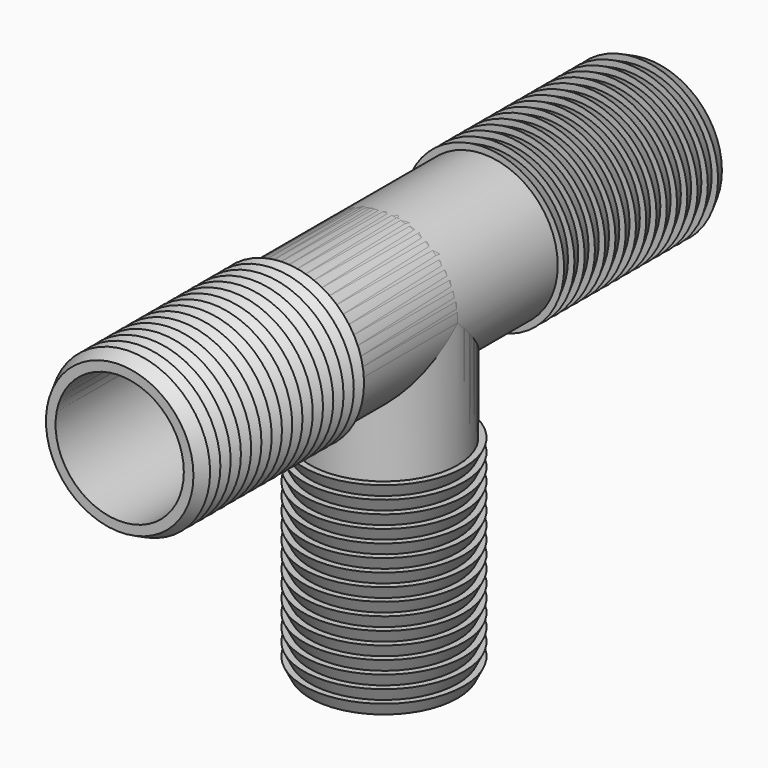
from build123d import *

# Parameters (mm, degrees)
CYLINDER001_R            = 5
CYLINDER001_DEPTH        = 25.75
CYLINDER_R               = 5
CYLINDER_DEPTH           = 25.75
ARRAY001_Z_COUNT         = 16
ARRAY001_Z_PITCH         = 1
ARRAY001_PLACEMENT_ANGLE = 270
CYLINDER003_R            = 5.75
CYLINDER003_DEPTH        = 25.75
CYLINDER002_R            = 5.75
CYLINDER002_DEPTH        = 25.75
ARRAY_Z_COUNT            = 16
ARRAY_Z_PITCH            = 1
CYLINDER005_R            = 5
CYLINDER005_DEPTH        = 51.5
CYLINDER004_R            = 5
CYLINDER004_DEPTH        = 25.75
ARRAY003_Z_COUNT         = 16
ARRAY003_Z_PITCH         = 1
ARRAY003_PLACEMENT_ANGLE = 270
CYLINDER007_R            = 5.75
CYLINDER007_DEPTH        = 51.5
CYLINDER006_R            = 5.75
CYLINDER006_DEPTH        = 25.75
ARRAY004_Z_COUNT         = 16
ARRAY004_Z_PITCH         = 1
ARRAY004_PLACEMENT_ANGLE = 90
ARRAY002_Z_COUNT         = 16
ARRAY002_Z_PITCH         = 1


with BuildPart() as cylinder001:
    # Cylinder001 → Cylinder001 (new body)
    with BuildSketch(Plane(origin=(0, 0, 25.75), x_dir=(1, 0, 0), z_dir=(0, -1, 0))):
        Circle(CYLINDER001_R)
    extrude(amount=CYLINDER001_DEPTH)


with BuildPart() as sphere:
    # Sphere → Sphere (revolve)
    with BuildSketch(Plane(origin=(0, 0, 25.75), x_dir=(1, 0, 0), z_dir=(0, -1, 0))):
        with BuildLine():
            ThreePointArc((0, -5), (5, 0), (0, 5))
            Line((0, 5), (0, -5))
        make_face()
    revolve(axis=Axis((0, 0, 25.75), (0, 0, 1)))


with BuildPart() as innerchannel:
    # Cylinder → Cylinder (new body)
    with BuildSketch(Plane.XY):
        Circle(CYLINDER_R)
    extrude(amount=CYLINDER_DEPTH)

    # Fusion: union Cylinder001, Sphere
    add(cylinder001.part)
    add(sphere.part)


with BuildPart() as array001:
    # Cone002 → Cone002 (revolve)
    with BuildSketch(Plane.XZ):
        Polygon((0, 0), (5.75, 0), (6.25, 1), (0, 1), align=None)
    revolve(axis=Axis((0, 0, 0), (0, 0, 1)))

    # Array001 Z: Array001 ×16


with BuildPart() as array001_1:
    add(array001.part)
    with Locations(*[(0, 0, i * ARRAY001_Z_PITCH) for i in range(1, ARRAY001_Z_COUNT)]):
        add(array001.part)


with BuildPart() as array001_2:
    # Array001 placement: moved
    add(array001_1.part.moved(Location((0, -25.75, 25.75))).rotate(Axis((0, -25.75, 25.75), (1, 0, 0)), ARRAY001_PLACEMENT_ANGLE))


with BuildPart() as cylinder003:
    # Cylinder003 → Cylinder003 (new body)
    with BuildSketch(Plane(origin=(0, 0, 25.75), x_dir=(1, 0, 0), z_dir=(0, -1, 0))):
        Circle(CYLINDER003_R)
    extrude(amount=CYLINDER003_DEPTH)


with BuildPart() as sphere001:
    # Sphere001 → Sphere001 (revolve)
    with BuildSketch(Plane(origin=(0, 0, 25.75), x_dir=(1, 0, 0), z_dir=(0, -1, 0))):
        with BuildLine():
            ThreePointArc((0, -5.75), (5.75, 0), (0, 5.75))
            Line((0, 5.75), (0, -5.75))
        make_face()
    revolve(axis=Axis((0, 0, 25.75), (0, 0, 1)))


with BuildPart() as outermain:
    # Cylinder002 → Cylinder002 (new body)
    with BuildSketch(Plane.XY):
        Circle(CYLINDER002_R)
    extrude(amount=CYLINDER002_DEPTH)

    # Fusion001: union Cylinder003, Sphere001
    add(cylinder003.part)
    add(sphere001.part)


with BuildPart() as obj1:
    # Cone → Cone (revolve)
    with BuildSketch(Plane.XZ):
        Polygon((0, 0), (5.75, 0), (6.25, 1), (0, 1), align=None)
    revolve(axis=Axis((0, 0, 0), (0, 0, 1)))

    # Array Z: obj1 ×16


with BuildPart() as obj1_1:
    add(obj1.part)
    with Locations(*[(0, 0, i * ARRAY_Z_PITCH) for i in range(1, ARRAY_Z_COUNT)]):
        add(obj1.part)

    # Fusion002: union Array001, OuterMain
    add(array001_2.part)
    add(outermain.part)

    # Cut: cut InnerChannel
    add(innerchannel.part, mode=Mode.SUBTRACT)


with BuildPart() as cylinder005:
    # Cylinder005 → Cylinder005 (new body)
    with BuildSketch(Plane(origin=(0, 25.75, 25.75), x_dir=(1, 0, 0), z_dir=(0, -1, 0))):
        Circle(CYLINDER005_R)
    extrude(amount=CYLINDER005_DEPTH)


with BuildPart() as sphere002:
    # Sphere002 → Sphere002 (revolve)
    with BuildSketch(Plane(origin=(0, 0, 25.75), x_dir=(1, 0, 0), z_dir=(0, -1, 0))):
        with BuildLine():
            ThreePointArc((0, -5), (5, 0), (0, 5))
            Line((0, 5), (0, -5))
        make_face()
    revolve(axis=Axis((0, 0, 25.75), (0, 0, 1)))


with BuildPart() as innerchannel001:
    # Cylinder004 → Cylinder004 (new body)
    with BuildSketch(Plane.XY):
        Circle(CYLINDER004_R)
    extrude(amount=CYLINDER004_DEPTH)

    # Fusion003: union Cylinder005, Sphere002
    add(cylinder005.part)
    add(sphere002.part)


with BuildPart() as array003:
    # Cone004 → Cone004 (revolve)
    with BuildSketch(Plane.XZ):
        Polygon((0, 0), (5.75, 0), (6.25, 1), (0, 1), align=None)
    revolve(axis=Axis((0, 0, 0), (0, 0, 1)))

    # Array003 Z: Array003 ×16


with BuildPart() as array003_1:
    add(array003.part)
    with Locations(*[(0, 0, i * ARRAY003_Z_PITCH) for i in range(1, ARRAY003_Z_COUNT)]):
        add(array003.part)


with BuildPart() as array003_2:
    # Array003 placement: moved
    add(array003_1.part.moved(Location((0, -25.75, 25.75))).rotate(Axis((0, -25.75, 25.75), (1, 0, 0)), ARRAY003_PLACEMENT_ANGLE))


with BuildPart() as cylinder007:
    # Cylinder007 → Cylinder007 (new body)
    with BuildSketch(Plane(origin=(0, 25.75, 25.75), x_dir=(1, 0, 0), z_dir=(0, -1, 0))):
        Circle(CYLINDER007_R)
    extrude(amount=CYLINDER007_DEPTH)


with BuildPart() as sphere003:
    # Sphere003 → Sphere003 (revolve)
    with BuildSketch(Plane(origin=(0, 0, 25.75), x_dir=(1, 0, 0), z_dir=(0, -1, 0))):
        with BuildLine():
            ThreePointArc((0, -5.75), (5.75, 0), (0, 5.75))
            Line((0, 5.75), (0, -5.75))
        make_face()
    revolve(axis=Axis((0, 0, 25.75), (0, 0, 1)))


with BuildPart() as outermain001:
    # Cylinder006 → Cylinder006 (new body)
    with BuildSketch(Plane.XY):
        Circle(CYLINDER006_R)
    extrude(amount=CYLINDER006_DEPTH)

    # Fusion004: union Cylinder007, Sphere003
    add(cylinder007.part)
    add(sphere003.part)


with BuildPart() as array004:
    # Cone005 → Cone005 (revolve)
    with BuildSketch(Plane.XZ):
        Polygon((0, 0), (5.75, 0), (6.25, 1), (0, 1), align=None)
    revolve(axis=Axis((0, 0, 0), (0, 0, 1)))

    # Array004 Z: Array004 ×16


with BuildPart() as array004_1:
    add(array004.part)
    with Locations(*[(0, 0, i * ARRAY004_Z_PITCH) for i in range(1, ARRAY004_Z_COUNT)]):
        add(array004.part)


with BuildPart() as array004_2:
    # Array004 placement: moved
    add(array004_1.part.moved(Location((0, 25.75, 25.75))).rotate(Axis((0, 25.75, 25.75), (1, 0, 0)), ARRAY004_PLACEMENT_ANGLE))


with BuildPart() as obj2:
    # Cone003 → Cone003 (revolve)
    with BuildSketch(Plane.XZ):
        Polygon((0, 0), (5.75, 0), (6.25, 1), (0, 1), align=None)
    revolve(axis=Axis((0, 0, 0), (0, 0, 1)))

    # Array002 Z: obj2 ×16


with BuildPart() as obj2_1:
    add(obj2.part)
    with Locations(*[(0, 0, i * ARRAY002_Z_PITCH) for i in range(1, ARRAY002_Z_COUNT)]):
        add(obj2.part)

    # Fusion005: union Array003, OuterMain001, Array004
    add(array003_2.part)
    add(outermain001.part)
    add(array004_2.part)

    # Cut001: cut InnerChannel001
    add(innerchannel001.part, mode=Mode.SUBTRACT)


solid = Compound([obj1_1.part, obj2_1.part])
